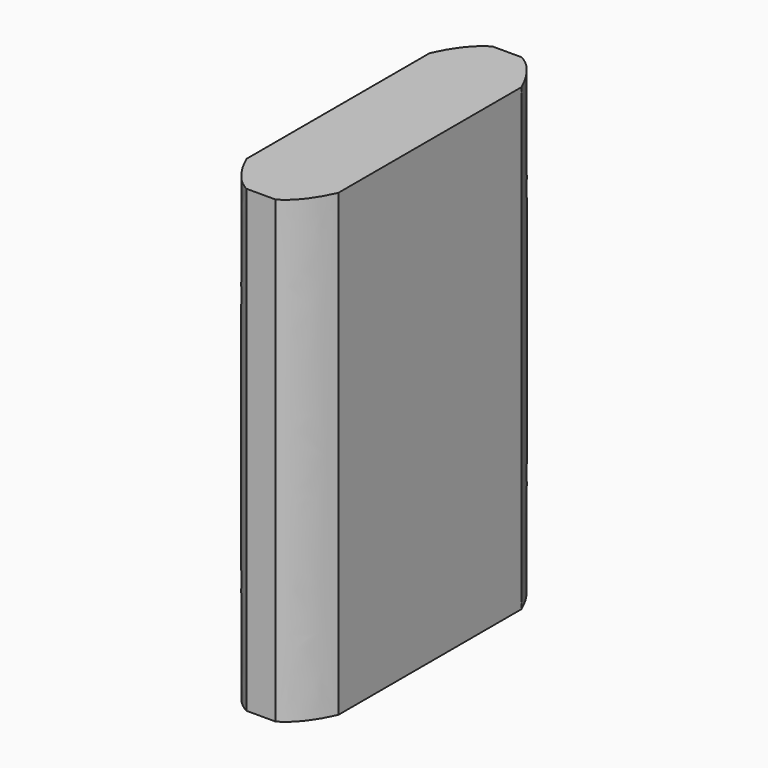
from build123d import *

# Parameters (mm, degrees)
F0_W     = 33.5
F0_H     = 50
F1_DEPTH = 10
F3_DEPTH = 50


with BuildPart() as f1:
    # F0 (on Right) → F1 (new body)
    with BuildSketch(Plane.YZ):
        with Locations((-19.3419211172, 40.3263012171)):
            Rectangle(F0_W, F0_H)
    extrude(amount=F1_DEPTH)

    # F2 (on face) → F3 (cut, through all)
    with BuildSketch(Plane(origin=(0, 0, 15.3263012171), x_dir=(1, 0, 0), z_dir=(0, 0, -1))):
        with BuildLine():
            add(Edge.make_bspline(
                [(3.4248817045, 36.0919211172), (1.4606722996, 35.0632699827), (0, 31.7979560777)],
                knots=[0.2183774698, 0.2183774698, 0.2183774698, 0.7583343291, 0.7583343291, 0.7583343291], degree=2, weights=[1, 0.9637766496, 1]))
            Line((3.4248817045, 36.0919211172), (0, 36.0919211172))
            Line((0, 36.0919211172), (0, 31.7979560777))
        make_face()
        with BuildLine():
            Line((0, 6.8858861567), (0, 2.5919211172))
            Line((0, 2.5919211172), (3.4248817045, 2.5919211172))
            add(Edge.make_bspline(
                [(0, 6.8858861567), (1.4606722996, 3.6205722517), (3.4248817045, 2.5919211172)],
                knots=[2.3832583245, 2.3832583245, 2.3832583245, 2.9232151838, 2.9232151838, 2.9232151838], degree=2, weights=[1, 0.9637766496, 1]))
        make_face()
        with BuildLine():
            Line((10, 31.7979560777), (10, 36.0919211172))
            Line((10, 36.0919211172), (6.5751182955, 36.0919211172))
            add(Edge.make_bspline(
                [(10, 31.7979560777), (8.5393277004, 35.0632699827), (6.5751182955, 36.0919211172)],
                knots=[5.5248509781, 5.5248509781, 5.5248509781, 6.0648078373, 6.0648078373, 6.0648078373], degree=2, weights=[1, 0.9637766496, 1]))
        make_face()
        with BuildLine():
            add(Edge.make_bspline(
                [(6.5751182955, 2.5919211172), (8.5393277004, 3.6205722517), (10, 6.8858861567)],
                knots=[3.3599701234, 3.3599701234, 3.3599701234, 3.8999269827, 3.8999269827, 3.8999269827], degree=2, weights=[1, 0.9637766496, 1]))
            Line((6.5751182955, 2.5919211172), (10, 2.5919211172))
            Line((10, 2.5919211172), (10, 6.8858861567))
        make_face()
    extrude(amount=-F3_DEPTH, mode=Mode.SUBTRACT)


solid = f1.part
